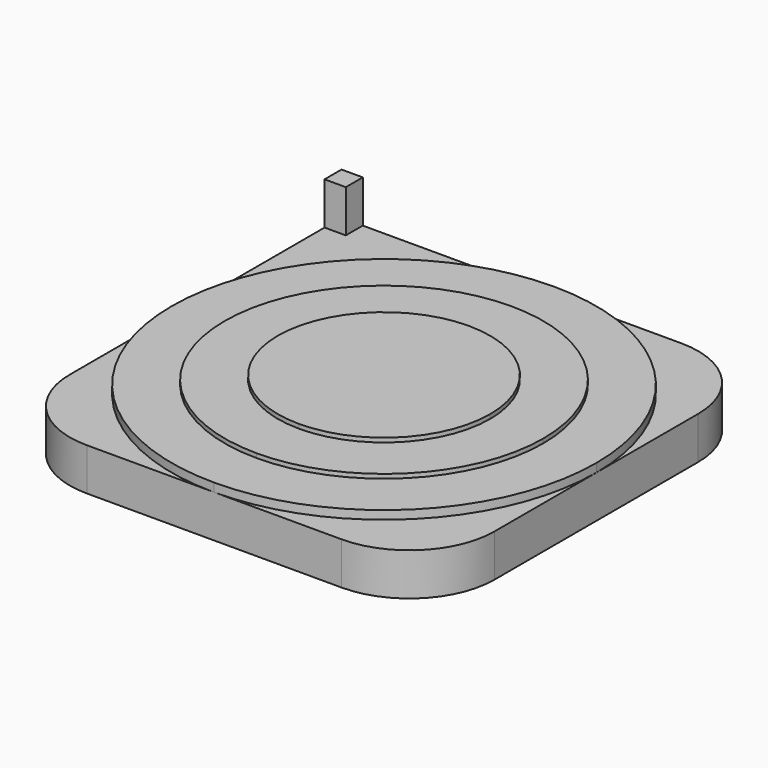
from build123d import *

# Parameters (mm, degrees)
F1_DEPTH = 2.54
F0_W     = 1.27
F0_H     = 1.27
F2_DEPTH = 3.048
F3_DEPTH = 5.08
F4_DEPTH = 3.302
F5_DEPTH = 3.556
F6_R     = 5.08


with BuildPart() as f1:
    # F0 (on Top) → F1 (new body)
    with BuildSketch(Plane.XY):
        with BuildLine():
            Line((0, 12.7), (0, 0))
            Line((0, 0), (12.7, 0))
            ThreePointArc((12.7, 0), (3.7197438789, 3.7197438789), (0, 12.7))
        make_face()
    extrude(amount=F1_DEPTH)



with BuildPart() as f1b:
    # F0 (on Top) → F1, piece 2 (new body)
    with BuildSketch(Plane.XY):
        with Locations((0.635, 24.765)):
            Rectangle(F0_W, F0_H)
        with BuildLine():
            Line((0, 24.13), (0, 12.7))
            ThreePointArc((0, 12.7), (3.7197438789, 21.6802561211), (12.7, 25.4))
            Line((12.7, 25.4), (1.27, 25.4))
            Line((1.27, 25.4), (1.27, 24.13))
            Line((1.27, 24.13), (0, 24.13))
        make_face()
    extrude(amount=F1_DEPTH)


with BuildPart() as f1c:
    # F0 (on Top) → F1, piece 3 (new body)
    with BuildSketch(Plane.XY):
        with BuildLine():
            Line((25.4, 25.4), (12.7, 25.4))
            ThreePointArc((12.7, 25.4), (21.6802561211, 21.6802561211), (25.4, 12.7))
            Line((25.4, 12.7), (25.4, 25.4))
        make_face()
    extrude(amount=F1_DEPTH)


with BuildPart() as f1d:
    # F0 (on Top) → F1, piece 4 (new body)
    with BuildSketch(Plane.XY):
        with BuildLine():
            ThreePointArc((25.4, 12.7), (21.6802561211, 3.7197438789), (12.7, 0))
            Line((12.7, 0), (25.4, 0))
            Line((25.4, 0), (25.4, 12.7))
        make_face()
    extrude(amount=F1_DEPTH)


with BuildPart() as f1_1:
    add(f1.part)

    add(f1b.part)  # F2 merges F1b

    add(f1c.part)  # F2 merges F1c

    add(f1d.part)  # F2 merges F1d
    # F0 (on Top) → F2 (join)
    with BuildSketch(Plane.XY):
        with BuildLine():
            Line((3.175, 12.7), (0, 12.7))
            ThreePointArc((0, 12.7), (3.7197438789, 3.7197438789), (12.7, 0))
            Line((12.7, 0), (12.7, 3.175))
            ThreePointArc((12.7, 3.175), (5.9648079092, 5.9648079092), (3.175, 12.7))
        make_face()
        with BuildLine():
            ThreePointArc((25.4, 12.7), (21.6802561211, 21.6802561211), (12.7, 25.4))
            Line((12.7, 25.4), (12.7, 22.225))
            ThreePointArc((12.7, 22.225), (19.4351920908, 19.4351920908), (22.225, 12.7))
            Line((22.225, 12.7), (25.4, 12.7))
        make_face()
        with BuildLine():
            Line((12.7, 3.175), (12.7, 0))
            ThreePointArc((12.7, 0), (21.6802561211, 3.7197438789), (25.4, 12.7))
            Line((25.4, 12.7), (22.225, 12.7))
            ThreePointArc((22.225, 12.7), (19.4351920908, 5.9648079092), (12.7, 3.175))
        make_face()
        with BuildLine():
            ThreePointArc((12.7, 25.4), (3.7197438789, 21.6802561211), (0, 12.7))
            Line((0, 12.7), (3.175, 12.7))
            ThreePointArc((3.175, 12.7), (5.9648079092, 19.4351920908), (12.7, 22.225))
            Line((12.7, 22.225), (12.7, 25.4))
        make_face()
    extrude(amount=F2_DEPTH)

    # F0 (on Top) → F3 (join)
    with BuildSketch(Plane.XY):
        with Locations((0.635, 24.765)):
            Rectangle(F0_W, F0_H)
    extrude(amount=F3_DEPTH)

    # F0 (on Top) → F4 (join)
    with BuildSketch(Plane.XY):
        with BuildLine():
            ThreePointArc((12.7, 22.225), (5.9648079092, 19.4351920908), (3.175, 12.7))
            Line((3.175, 12.7), (6.35, 12.7))
            ThreePointArc((6.35, 12.7), (8.2098719395, 17.1901280605), (12.7, 19.05))
            Line((12.7, 19.05), (12.7, 22.225))
        make_face()
        with BuildLine():
            ThreePointArc((22.225, 12.7), (19.4351920908, 19.4351920908), (12.7, 22.225))
            Line((12.7, 22.225), (12.7, 19.05))
            ThreePointArc((12.7, 19.05), (17.1901280605, 17.1901280605), (19.05, 12.7))
            Line((19.05, 12.7), (22.225, 12.7))
        make_face()
        with BuildLine():
            Line((6.35, 12.7), (3.175, 12.7))
            ThreePointArc((3.175, 12.7), (5.9648079092, 5.9648079092), (12.7, 3.175))
            Line((12.7, 3.175), (12.7, 6.35))
            ThreePointArc((12.7, 6.35), (8.2098719395, 8.2098719395), (6.35, 12.7))
        make_face()
        with BuildLine():
            Line((12.7, 6.35), (12.7, 3.175))
            ThreePointArc((12.7, 3.175), (19.4351920908, 5.9648079092), (22.225, 12.7))
            Line((22.225, 12.7), (19.05, 12.7))
            ThreePointArc((19.05, 12.7), (17.1901280605, 8.2098719395), (12.7, 6.35))
        make_face()
    extrude(amount=F4_DEPTH)

    # F0 (on Top) → F5 (join)
    with BuildSketch(Plane.XY):
        with BuildLine():
            ThreePointArc((12.7, 19.05), (8.2098719395, 17.1901280605), (6.35, 12.7))
            Line((6.35, 12.7), (12.7, 12.7))
            Line((12.7, 12.7), (12.7, 19.05))
        make_face()
        with BuildLine():
            Line((12.7, 12.7), (6.35, 12.7))
            ThreePointArc((6.35, 12.7), (8.2098719395, 8.2098719395), (12.7, 6.35))
            Line((12.7, 6.35), (12.7, 12.7))
        make_face()
        with BuildLine():
            Line((12.7, 19.05), (12.7, 12.7))
            Line((12.7, 12.7), (19.05, 12.7))
            ThreePointArc((19.05, 12.7), (17.1901280605, 17.1901280605), (12.7, 19.05))
        make_face()
        with BuildLine():
            Line((12.7, 12.7), (12.7, 6.35))
            ThreePointArc((12.7, 6.35), (17.1901280605, 8.2098719395), (19.05, 12.7))
            Line((19.05, 12.7), (12.7, 12.7))
        make_face()
    extrude(amount=F5_DEPTH)

    # F6
    f6_edges = [f1_1.edges().sort_by_distance(p)[0] for p in [
        (0, 0, 1.27),
        (25.4, 25.4, 1.27),
        (25.4, 0, 1.27),
    ]]
    fillet(f6_edges, radius=F6_R)


solid = f1_1.part
